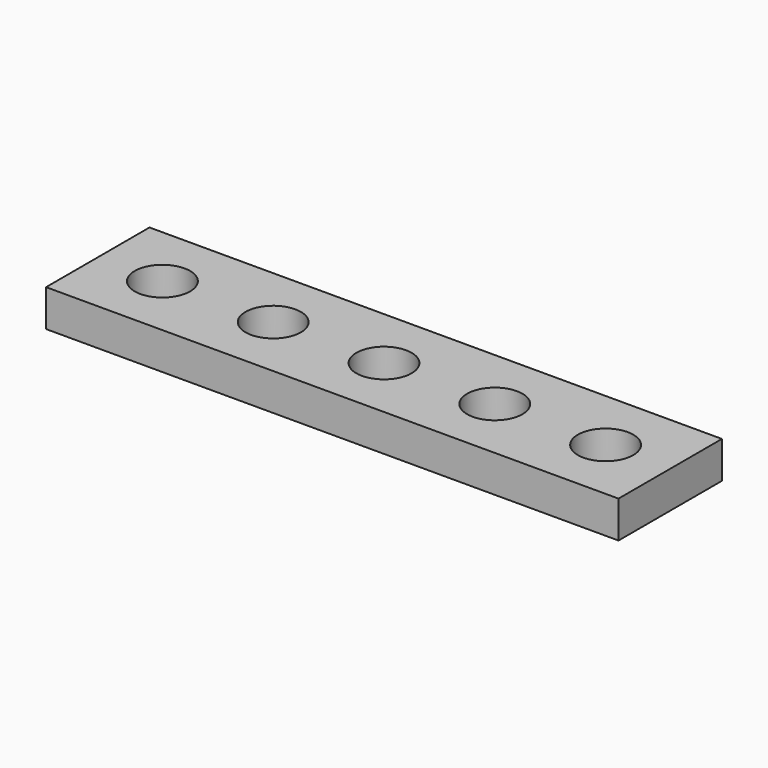
from build123d import *

# Parameters (mm, degrees)
CYLINDER_R     = 1.5
CYLINDER_DEPTH = 3
ARRAY_X_COUNT  = 5
ARRAY_X_PITCH  = 6
BOX_W          = 31
BOX_H          = 7
BOX_DEPTH      = 2


with BuildPart() as array:
    # Cylinder → Cylinder (new body)
    with BuildSketch(Plane(origin=(3.5, 3.5, -7), x_dir=(1, 0, 0), z_dir=(0, 0, 1))):
        Circle(CYLINDER_R)
    extrude(amount=CYLINDER_DEPTH)

    # Array X: Array ×5


with BuildPart() as array_1:
    add(array.part)
    with Locations(*[(i * ARRAY_X_PITCH, 0, 0) for i in range(1, ARRAY_X_COUNT)]):
        add(array.part)


with BuildPart() as array_2:
    # Array placement: moved
    add(array_1.part.moved(Location((0, -8.345e-07, 7.0000004768))))


with BuildPart() as cut:
    # Box → Box (new body)
    with BuildSketch(Plane.XY):
        with Locations((15.5, 3.5)):
            Rectangle(BOX_W, BOX_H)
    extrude(amount=BOX_DEPTH)

    # Cut: cut Array
    add(array_2.part, mode=Mode.SUBTRACT)


solid = cut.part
